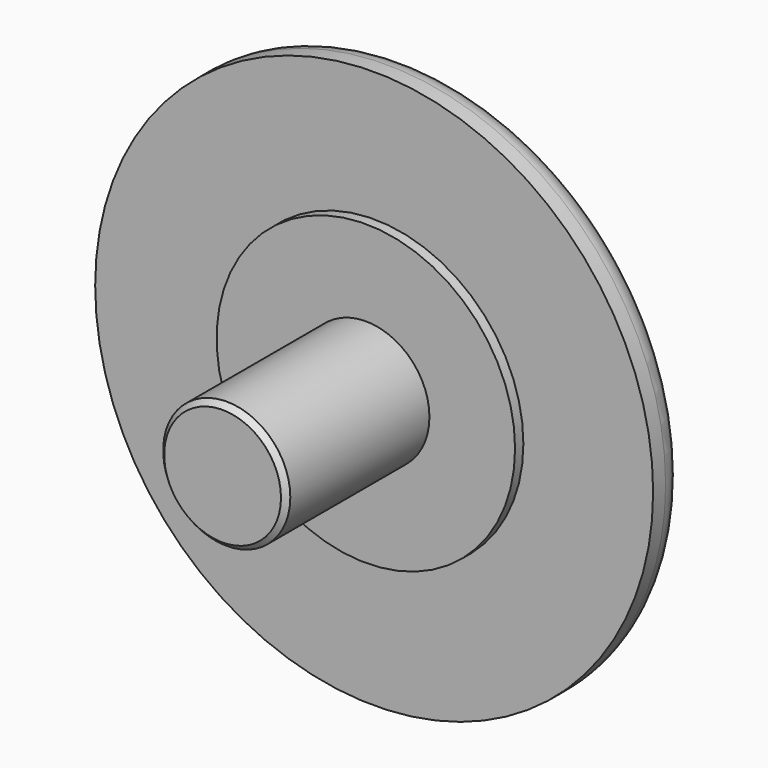
from build123d import *

# Parameters (mm, degrees)
F2_SIZE = 0.2


with BuildPart() as f1:
    # F0 (on Top) → F1 (revolve)
    with BuildSketch(Plane.XY):
        with BuildLine():
            Line((0, 8.9), (0, 0))
            Line((0, 0), (2.45, 0))
            Line((2.45, 0), (2.45, 6.9))
            Line((2.45, 6.9), (5.75, 6.9))
            Line((5.75, 6.9), (5.75, 7.3))
            Line((5.75, 7.3), (10.75, 7.3))
            Line((10.75, 7.3), (10.75, 7.9))
            ThreePointArc((10.75, 7.9), (10.457107, 8.607107), (9.75, 8.9))
            Line((9.75, 8.9), (0, 8.9))
        make_face()
    revolve(axis=Axis((0, 4.45, 0), (0, 1, 0)))

    # F2
    f2_edges = [f1.edges().sort_by_distance(p)[0] for p in [
        (-2.45, 0, 0),
    ]]
    chamfer(f2_edges, length=F2_SIZE)


solid = f1.part
